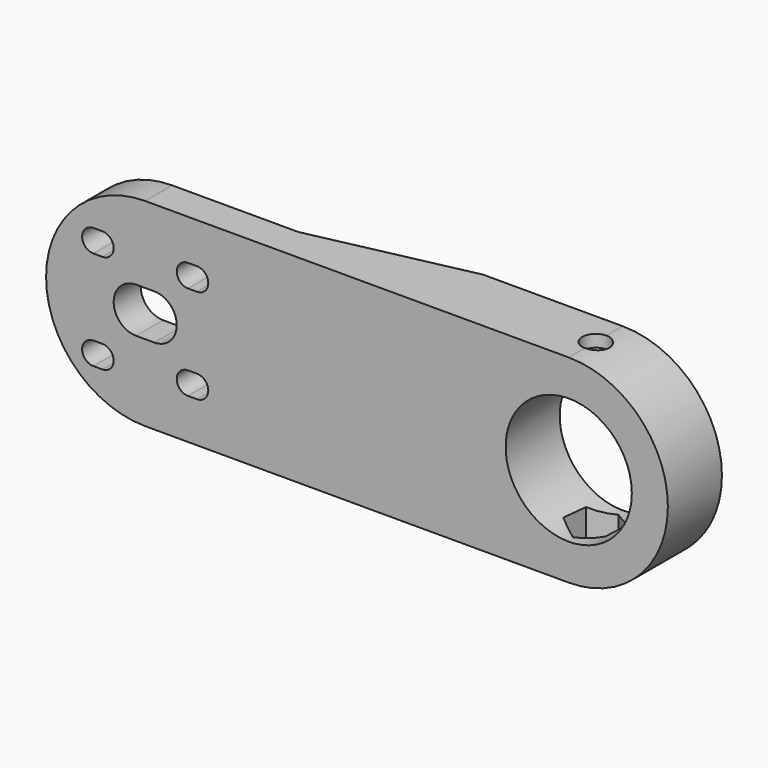
from build123d import *

# Parameters (mm, degrees)
F0_R      = 14
F1_DEPTH  = 15
F2_R      = 3
F3_DEPTH  = 50
F6_DEPTH  = 19.3
F7_DEPTH  = 19.3
F9_DEPTH  = 25
F10_DEPTH = 25


with BuildPart() as f1:
    # F0 (on Front) → F1 (new body)
    with BuildSketch(Plane.XZ):
        with BuildLine():
            Line((0, 44), (-94, 44))
            ThreePointArc((-94, 44), (-116, 22), (-94, 0))
            Line((-94, 0), (0, 0))
            ThreePointArc((0, 0), (22, 22), (0, 44))
        make_face()
        with BuildLine():
            Line((-105.5, 13), (-103.5, 13))
            ThreePointArc((-103.5, 13), (-101, 10.5), (-103.5, 8))
            Line((-103.5, 8), (-105.5, 8))
            ThreePointArc((-105.5, 8), (-108, 10.5), (-105.5, 13))
        make_face(mode=Mode.SUBTRACT)
        with BuildLine():
            Line((-84.5, 14), (-82.5, 14))
            ThreePointArc((-82.5, 14), (-80, 11.5), (-82.5, 9))
            Line((-82.5, 9), (-84.5, 9))
            ThreePointArc((-84.5, 9), (-87, 11.5), (-84.5, 14))
        make_face(mode=Mode.SUBTRACT)
        with BuildLine():
            Line((-96, 27), (-92, 27))
            ThreePointArc((-92, 27), (-87, 22), (-92, 17))
            Line((-92, 17), (-96, 17))
            ThreePointArc((-96, 17), (-100.999999, 22), (-96, 27))
        make_face(mode=Mode.SUBTRACT)
        with BuildLine():
            Line((-105.5, 35), (-103.5, 35))
            ThreePointArc((-103.5, 35), (-101, 32.5), (-103.5, 30))
            Line((-103.5, 30), (-105.5, 30))
            ThreePointArc((-105.5, 30), (-108, 32.5), (-105.5, 35))
        make_face(mode=Mode.SUBTRACT)
        with BuildLine():
            Line((-84.5, 35), (-82.5, 35))
            ThreePointArc((-82.5, 35), (-80, 32.5), (-82.5, 30))
            Line((-82.5, 30), (-84.5, 30))
            ThreePointArc((-84.5, 30), (-87, 32.5), (-84.5, 35))
        make_face(mode=Mode.SUBTRACT)
        with Locations((0, 22)):
            Circle(F0_R, mode=Mode.SUBTRACT)
    extrude(amount=-F1_DEPTH)

    # F2 (on Top) → F3 (cut)
    with BuildSketch(Plane.XY):
        with Locations((0, 7.5)):
            Circle(F2_R)
    extrude(amount=F3_DEPTH, mode=Mode.SUBTRACT)

    # F5 (on offset) → F6 (cut)
    with BuildSketch(Plane.XY.offset(22)):
        Polygon((4.767146, 4.243061), (5.204165, 10), (0.437019, 13.256939), (-4.767146, 10.756939), (-5.204165, 5), (-0.437019, 1.743061), align=None)
    extrude(amount=F6_DEPTH, mode=Mode.SUBTRACT)

    # F5 (on offset) → F7 (cut)
    with BuildSketch(Plane.XY.offset(22)):
        Polygon((4.767146, 4.243061), (5.204165, 10), (0.437019, 13.256939), (-4.767146, 10.756939), (-5.204165, 5), (-0.437019, 1.743061), align=None)
    extrude(amount=-F7_DEPTH, mode=Mode.SUBTRACT)

    # F8 (on offset) → F9 (cut)
    with BuildSketch(Plane.XY.offset(22)):
        Polygon((-116, 15), (-116, 7.5), (-66, 7.5), (-31, 15), align=None)
    extrude(amount=-F9_DEPTH, mode=Mode.SUBTRACT)

    # F8 (on offset) → F10 (cut)
    with BuildSketch(Plane.XY.offset(22)):
        Polygon((-116, 15), (-116, 7.5), (-66, 7.5), (-31, 15), align=None)
    extrude(amount=F10_DEPTH, mode=Mode.SUBTRACT)


solid = f1.part
